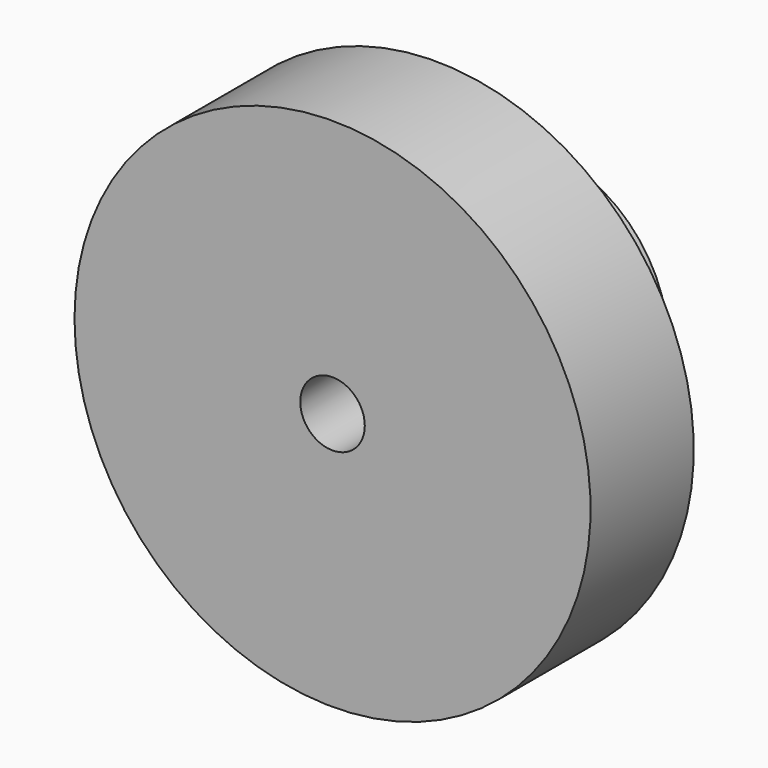
from build123d import *

# Parameters (mm, degrees)
F3_D = 6.35


with BuildPart() as f1:
    # F0 (on Top) → F1 (revolve)
    with BuildSketch(Plane.XY):
        Polygon((-25.4, 0), (0, 0), (0, 25.4), (-12.7, 25.4), (-12.7, 12.699999), (-25.4, 12.699999), align=None)
    revolve(axis=Axis((0, 12.7, 0), (0, -1, 0)))

    # F3 (through all)
    with Locations(Plane(origin=(0, 25.4, 0), x_dir=(-1, 0, 0), z_dir=(0, 1, 0))):
        with Locations((0, 0)):
            Hole(F3_D / 2)


solid = f1.part
